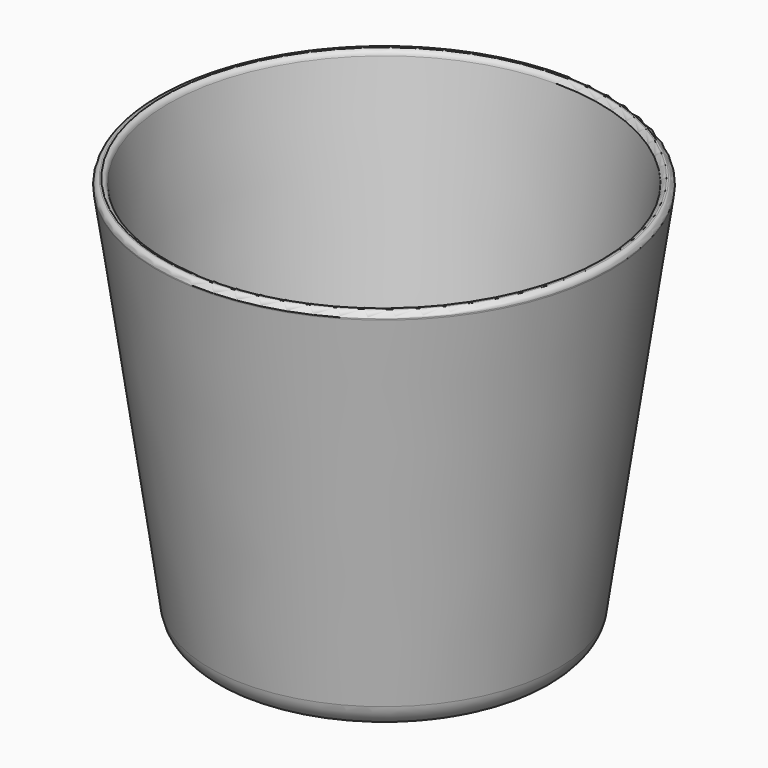
from build123d import *


with BuildPart() as f1:
    # F0 (on Front) → F1 (revolve)
    with BuildSketch(Plane.XZ):
        with BuildLine():
            Line((0, 12), (0, 0))
            Line((0, 0), (25.663523, 0))
            ThreePointArc((25.663523, 0), (28.939532, 1.22273), (30.61327, 4.292893))
            Line((30.61327, 4.292893), (39.821986, 68.753903))
            Line((39.821986, 68.753903), (39.853868, 68.977076))
            ThreePointArc((39.853868, 68.977076), (39.617498, 69.653787), (38.989847, 70))
            Line((38.989847, 70), (38.712397, 70))
            ThreePointArc((38.712397, 70), (38.142893, 69.716937), (37.858028, 69.148332))
            Line((37.858028, 69.148332), (30.675213, 18.868629))
            ThreePointArc((30.675213, 18.868629), (27.997231, 13.956368), (22.755617, 12))
            Line((22.755617, 12), (0, 12))
        make_face()
    revolve(axis=Axis((0, 0, 6), (0, 0, -1)))


solid = f1.part
